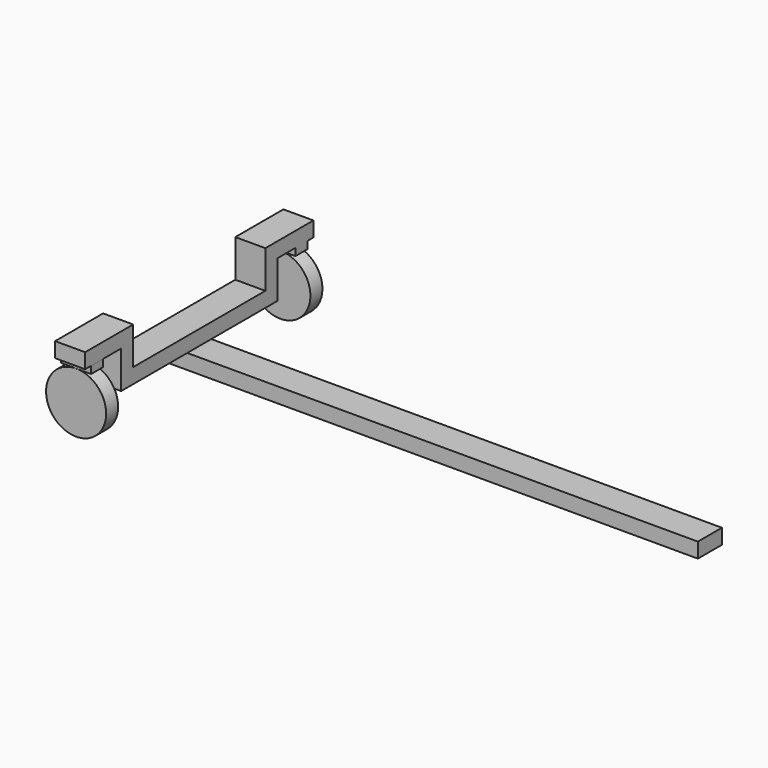
from build123d import *

# Parameters (mm, degrees)
F0_W      = 1828.8
F0_H      = 101.6
F1_DEPTH  = 50.8
F2_W      = 101.6
F2_H      = 177.8
F2_H_2    = 101.6
F2_H_3    = 228.6
F3_DEPTH  = 50.8
F4_W      = 101.6
F4_H      = 76.2
F4_H_2    = 50.8
F5_DEPTH  = 50.8
F6_W      = 101.6
F6_H      = 152.4
F6_H_2    = 50.8
F7_DEPTH  = 50.8
F10_DEPTH = 50.8


with BuildPart() as f1:
    # F0 (on Top) → F1 (new body)
    with BuildSketch(Plane.XY):
        Rectangle(F0_W, F0_H)
    extrude(amount=F1_DEPTH)

    # F2 (on face) → F3 (join)
    with BuildSketch(Plane.XY.offset(50.8)):
        with Locations((-863.6, 139.7)):
            Rectangle(F2_W, F2_H)
        with Locations((-863.6, 0)):
            Rectangle(F2_W, F2_H_2)
        with Locations((-863.6, -165.1)):
            Rectangle(F2_W, F2_H_3)
    extrude(amount=F3_DEPTH)

    # F4 (on face) → F5 (join)
    with BuildSketch(Plane.XZ.offset(279.4)):
        with Locations((-863.6, 139.7)):
            Rectangle(F4_W, F4_H)
        with Locations((-863.6, 76.2)):
            Rectangle(F4_W, F4_H_2)
    extrude(amount=F5_DEPTH)

    # F6 (on face) → F7 (join)
    with BuildSketch(Plane.XY.offset(177.8)):
        with Locations((-863.6, -406.4)):
            Rectangle(F6_W, F6_H)
        with Locations((-863.6, -304.8)):
            Rectangle(F6_W, F6_H_2)
    extrude(amount=F7_DEPTH)

    # F11: F1, F10, F10b across plane


with BuildPart() as f10:
    # F9 (on offset) → F10 (new body)
    with BuildSketch(Plane.XZ.offset(457.2)):
        with BuildLine():
            ThreePointArc((-762, 51.7180485362), (-791.7579510314, 123.5600975047), (-863.6, 153.3180485362))
            ThreePointArc((-863.6, 153.3180485362), (-935.4420489686, -20.1240004324), (-762, 51.7180485362))
        make_face()
    extrude(amount=-F10_DEPTH)


with BuildPart() as f10b:
    # F9 (on offset) → F10, piece 2 (new body)
    with BuildSketch(Plane.XZ.offset(457.2)):
        Polygon((-812.8, 177.8), (-914.4, 177.8), (-914.4, 153.3180485362), (-863.6, 153.3180485362), (-812.8, 153.3180485362), align=None)
    extrude(amount=-F10_DEPTH)


with BuildPart() as f1_1:
    add(f1.part)
    add(f1.part.mirror(Plane.XZ))
    add(f10.part.mirror(Plane.XZ))
    add(f10b.part.mirror(Plane.XZ))


solid = Compound([f10.part, f10b.part, f1_1.part])
